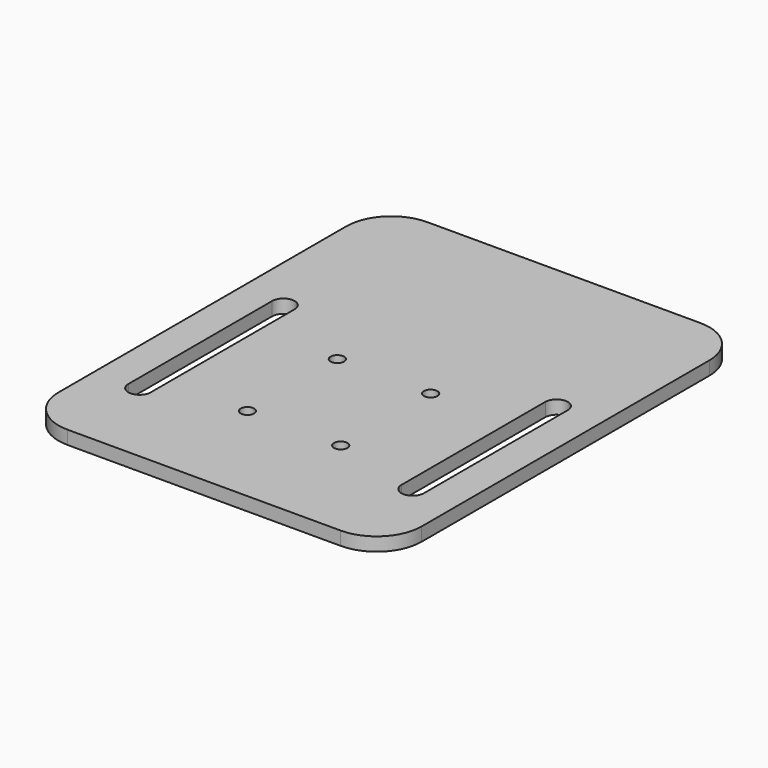
from build123d import *

# Parameters (mm, degrees)
F0_W     = 40.3748353374
F0_H     = 100
F1_DEPTH = 3
F3_D     = 3
F5_R     = 10
F7_DEPTH = 31.1417784542


with BuildPart() as f1:
    # F0 (on Top) → F1 (new body)
    with BuildSketch(Plane.XY):
        with Locations((20.1874176687, 50)):
            Rectangle(F0_W, F0_H)
    extrude(amount=F1_DEPTH)

    # F3 (through all)
    with Locations(Plane(origin=(0, 0, 0), x_dir=(1, 0, 0), z_dir=(0, 0, -1))):
        with Locations((10.3748353374, -25), (10.3748353374, -50)):
            Hole(F3_D / 2)

    # F5
    f5_edges = [f1.edges().sort_by_distance(p)[0] for p in [
        (40.374835, 100, 1.5),
        (40.374835, 0, 1.5),
    ]]
    fillet(f5_edges, radius=F5_R)

    # F6 (on face) → F7 (cut)
    with BuildSketch(Plane.XY.offset(3)):
        with BuildLine():
            ThreePointArc((27.8748353374, 20), (30.3748353374, 17.5), (32.8748353374, 20))
            Line((32.8748353374, 20), (32.8748353374, 60))
            ThreePointArc((32.8748353374, 60), (30.3748353374, 62.5), (27.8748353374, 60))
            Line((27.8748353374, 60), (27.8748353374, 20))
        make_face()
    extrude(amount=-F7_DEPTH, mode=Mode.SUBTRACT)

    # F8: F1 across plane


with BuildPart() as f1_1:
    add(f1.part)
    add(f1.part.mirror(Plane.YZ))


solid = f1_1.part
